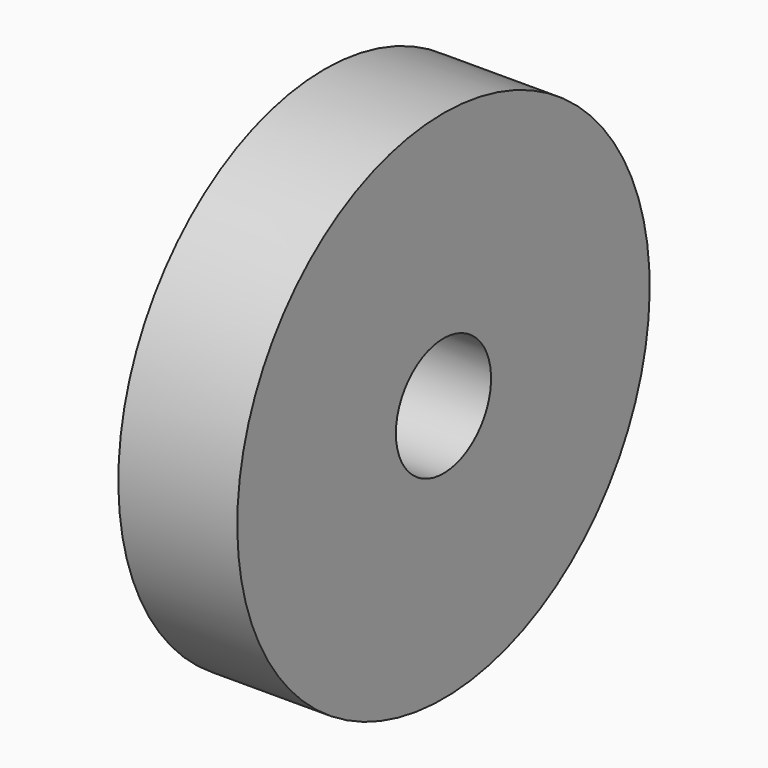
from build123d import *

# Parameters (mm, degrees)
F0_W     = 7.62
F0_H     = 16.51
F2_R     = 3.81
F3_DEPTH = 25.4


with BuildPart() as f1:
    # F0 (on Front) → F1 (revolve)
    with BuildSketch(Plane.XZ):
        with Locations((2.933349, 25.88338)):
            Rectangle(F0_W, F0_H)
    revolve(axis=Axis((2.933349, 0, 17.62838), (-1, 0, 0)))

    # F2 (on face) → F3 (cut)
    with BuildSketch(Plane(origin=(-0.876651, 0, 0), x_dir=(0, -1, 0), z_dir=(-1, 0, 0))):
        with Locations((0, 17.62838)):
            Circle(F2_R)
    extrude(amount=-F3_DEPTH, mode=Mode.SUBTRACT)


solid = f1.part
